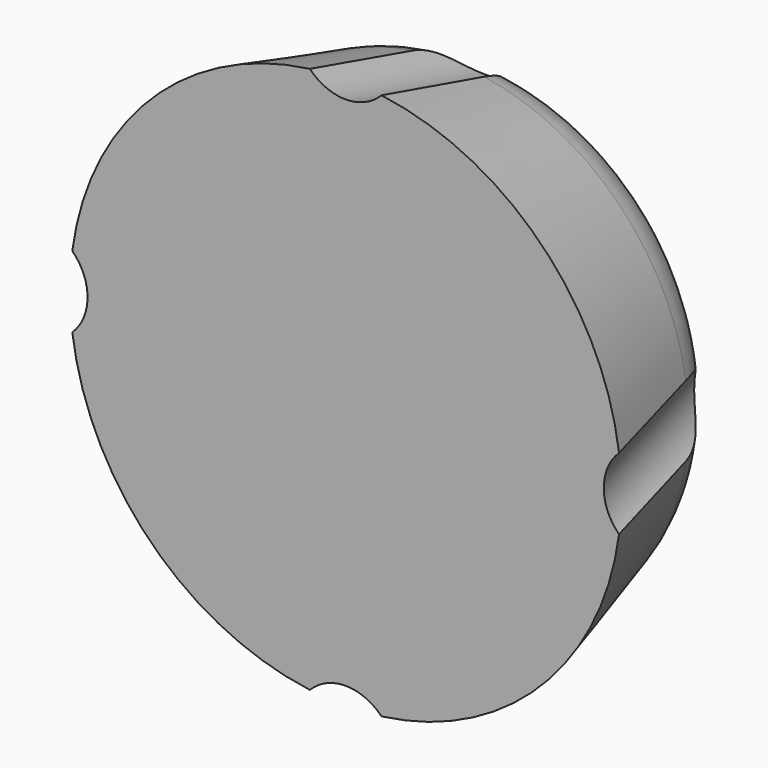
from build123d import *

# Parameters (mm, degrees)
F2_R     = 1
F3_DEPTH = 1.5
F4_SIZE  = 0.2
F5_R     = 0.4
F6_DEPTH = 0.4
F9_COUNT = 4


with BuildPart() as f1:
    # F0 (on Top) → F1 (revolve)
    with BuildSketch(Plane.XY):
        with BuildLine():
            Line((-6.5, 0), (0, 0))
            Line((0, 0), (0, 4.5))
            Line((0, 4.5), (-3.7298287009, 4.5))
            ThreePointArc((-3.7298287009, 4.5), (-4.9400816795, 4.0922586874), (-5.6568645201, 3.0352877276))
            Line((-5.6568645201, 3.0352877276), (-6.5, 0))
        make_face()
    revolve(axis=Axis((0, 13.4025972581, 0), (0, 1, 0)))

    # F2 (on face) → F3 (join)
    with BuildSketch(Plane(origin=(0, 4.5, 0), x_dir=(-1, 0, 0), z_dir=(0, 1, 0))):
        Circle(F2_R)
    extrude(amount=F3_DEPTH)

    # F4
    f4_edges = [f1.edges().sort_by_distance(p)[0] for p in [
        (1, 6, 0),
    ]]
    chamfer(f4_edges, length=F4_SIZE)

    # F5 (on face) → F6 (join)
    with BuildSketch(Plane(origin=(0, 4.5, 0), x_dir=(-1, 0, 0), z_dir=(0, 1, 0))):
        with Locations((0, 3.2)):
            Circle(F5_R)
        with Locations((3.2, 0)):
            Circle(F5_R)
        with Locations((0, -3.2)):
            Circle(F5_R)
        with Locations((-3.2, 0)):
            Circle(F5_R)
        with Locations((-2.2627416998, 2.2627416998)):
            Circle(F5_R)
        with Locations((2.2627416998, 2.2627416998)):
            Circle(F5_R)
        with Locations((2.2627416998, -2.2627416998)):
            Circle(F5_R)
        with Locations((-2.2627416998, -2.2627416998)):
            Circle(F5_R)
    extrude(amount=F6_DEPTH)


with BuildPart() as f8:
    # F7 (on Right) → F8 (revolve)
    with BuildSketch(Plane.YZ):
        Polygon((-0.7489218035, 8.783760689), (-1.07009444, 7.6275391974), (6.0141044293, 5.6597061782), (6.3352770658, 6.8159276697), align=None)
    revolve(axis=Axis((0, 4.9801668253, 5.9469110682), (0, 0.9635179096, -0.2676438638)))


with BuildPart() as f9_1:
    # F9: instance of F8
    add(f8.part.rotate(Axis((0, 5.8, 0), (0, 1, 0)), 1 * 360 / F9_COUNT))


with BuildPart() as f9_2:
    # F9: instance of F8
    add(f8.part.rotate(Axis((0, 5.8, 0), (0, 1, 0)), 2 * 360 / F9_COUNT))


with BuildPart() as f9_3:
    # F9: instance of F8
    add(f8.part.rotate(Axis((0, 5.8, 0), (0, 1, 0)), 3 * 360 / F9_COUNT))


with BuildPart() as f1_1:
    add(f1.part)

    # F10: cut F8, F9_1, F9_2, F9_3
    add(f8.part, mode=Mode.SUBTRACT)
    add(f9_1.part, mode=Mode.SUBTRACT)
    add(f9_2.part, mode=Mode.SUBTRACT)
    add(f9_3.part, mode=Mode.SUBTRACT)


solid = f1_1.part
